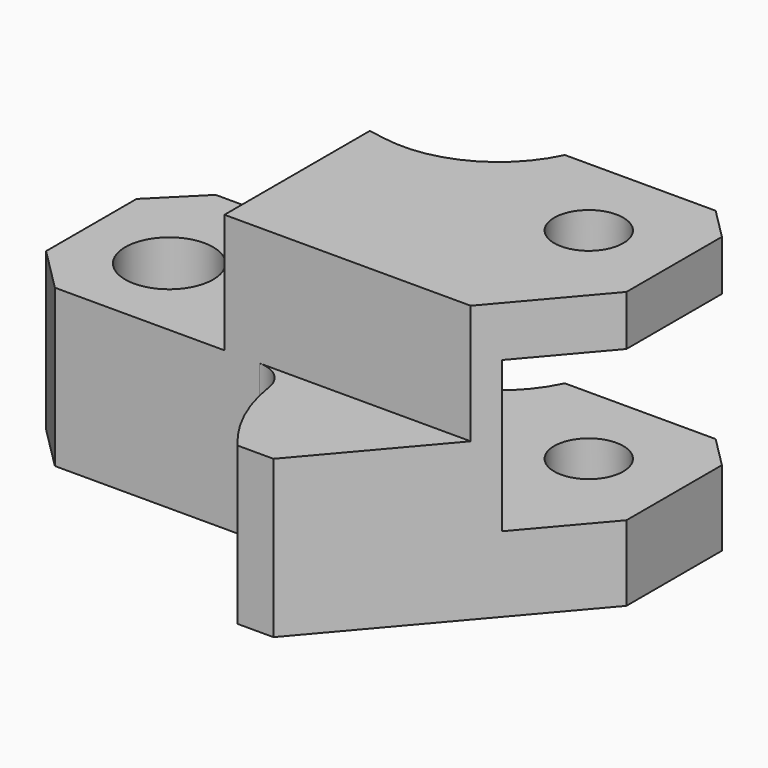
from build123d import *

# Parameters (mm, degrees)
F0_R     = 7
F0_R_2   = 5.5
F1_DEPTH = 44
F2_R     = 7
F3_DEPTH = 19
F5_R     = 41
F6_DEPTH = 24
F8_DEPTH = 19


with BuildPart() as f1:
    # F0 (on Top) → F1 (new body)
    with BuildSketch(Plane.XY):
        with BuildLine():
            Line((-20.4506443609, 16.7664520695), (-30.0882231277, 16.7664520695))
            Line((-30.0882231277, 16.7664520695), (-37.0882231277, 9.7664520695))
            Line((-37.0882231277, 9.7664520695), (-37.0882231277, -8.2335479305))
            Line((-37.0882231277, -8.2335479305), (-30.0882231277, -15.2335479305))
            Line((-30.0882231277, -15.2335479305), (2.4873157836, -15.2335479305))
            ThreePointArc((2.4873157836, -15.2335479305), (5.7525515647, -16.4469616983), (7.432954525, -19.4982538128))
            ThreePointArc((7.432954525, -19.4982538128), (9.7697847282, -27.3492199915), (14.208756925, -34.2335479305))
            Line((14.208756925, -34.2335479305), (19.9117768723, -34.2335479305))
            Line((19.9117768723, -34.2335479305), (48.9117768723, -0.2335479305))
            Line((48.9117768723, -0.2335479305), (48.9117768723, 18.7664520695))
            Line((48.9117768723, 18.7664520695), (43.9117768723, 23.7664520695))
            Line((43.9117768723, 23.7664520695), (19.9117768723, 23.7664520695))
            ThreePointArc((19.9117768723, 23.7664520695), (11.4619798371, 15.0687874681), (-0.5277319739, 13.2535050814))
            Line((-0.5277319739, 13.2535050814), (-20.4506443609, 16.7664520695))
        make_face()
        with Locations((-23.0882231277, -1.2335479305)):
            Circle(F0_R, mode=Mode.SUBTRACT)
        with Locations((34.9117768723, 9.7664520695)):
            Circle(F0_R_2, mode=Mode.SUBTRACT)
    extrude(amount=F1_DEPTH)

    # F2 (on face) → F3 (cut)
    with BuildSketch(Plane.XY.offset(44)):
        Polygon((-30.0882231277, -15.2335479305), (-3.0882231277, -15.2335479305), (-3.0882231277, 13.7049887557), (-20.4506443609, 16.7664520695), (-30.0882231277, 16.7664520695), (-37.0882231277, 9.7664520695), (-37.0882231277, -8.2335479305), align=None)
        with Locations((-23.0882231277, -1.2335479305)):
            Circle(F2_R, mode=Mode.SUBTRACT)
    extrude(amount=-F3_DEPTH, mode=Mode.SUBTRACT)

    # F5 (on offset) → F6 (cut)
    with BuildSketch(Plane.XY.offset(36)):
        with Locations((43.189617951, 28.5173000447)):
            Circle(F5_R)
    extrude(amount=-F6_DEPTH, mode=Mode.SUBTRACT)

    # F7 (on face) → F8 (cut)
    with BuildSketch(Plane.XY.offset(44)):
        with BuildLine():
            Line((36.1176592252, -15.2335479305), (2.4873157836, -15.2335479305))
            ThreePointArc((2.4873157836, -15.2335479305), (5.7525515647, -16.4469616983), (7.432954525, -19.4982538128))
            ThreePointArc((7.432954525, -19.4982538128), (9.7697847282, -27.3492199915), (14.208756925, -34.2335479305))
            Line((14.208756925, -34.2335479305), (19.9117768723, -34.2335479305))
            Line((19.9117768723, -34.2335479305), (36.1176592252, -15.2335479305))
        make_face()
    extrude(amount=-F8_DEPTH, mode=Mode.SUBTRACT)


solid = f1.part
